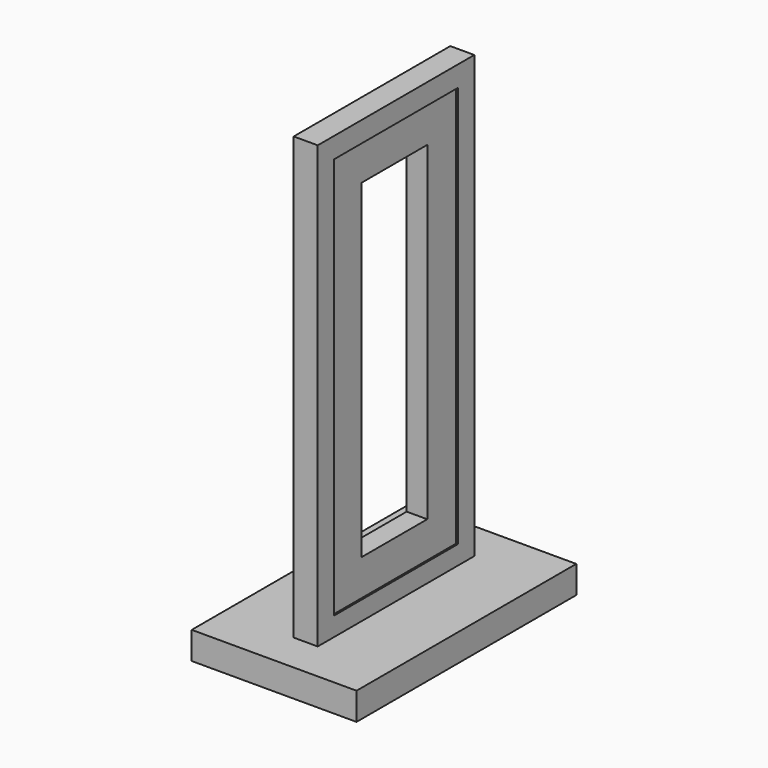
from build123d import *

# Parameters (mm, degrees)
F0_W     = 177.8
F0_H     = 406.4
F0_W_2   = 76.2
F0_H_2   = 304.8
F1_DEPTH = 9.525
F2_DEPTH = 76.2


with BuildPart() as f1:
    # F0 (on Right) → F1 (new body, symmetric)
    with BuildSketch(Plane.YZ):
        with Locations((0, 228.6)):
            Rectangle(F0_W, F0_H)
        with Locations((0, 228.6)):
            Rectangle(F0_W_2, F0_H_2, mode=Mode.SUBTRACT)
    extrude(amount=F1_DEPTH, both=True)


with BuildPart() as f2:
    # F0 (on Right) → F2 (new body, symmetric)
    with BuildSketch(Plane.YZ):
        Polygon((127, 25.4), (88.9, 25.4), (-88.9, 25.4), (-127, 25.4), (-127, 0), (127, 0), align=None)
    extrude(amount=F2_DEPTH, both=True)


with BuildPart() as f4:
    # F4: sweep along a path in F4_path
    with BuildLine(Plane(origin=(9.525, -88.9, 431.8), x_dir=(0, 0, -1), z_dir=(-1, 0, 0))) as f4_path:
        Line((0, 0), (406.4, 0))
        Line((406.4, 0), (406.4, -177.8))
        Line((406.4, -177.8), (0, -177.8))
        Line((0, -177.8), (0, 0))
    # F3 (on face) → F4 (sweep)
    with BuildSketch(Plane.XY.offset(25.4)):
        Polygon((9.525, -88.9), (-9.525, -88.9), (-9.525, -71.4375), (-11.1125, -71.4375), (-11.1125, -90.4875), (11.1125, -90.4875), (11.1125, -71.4375), (9.525, -71.4375), align=None)
    sweep(path=f4_path.line, transition=Transition.RIGHT)


solid = Compound([f1.part, f2.part, f4.part])
